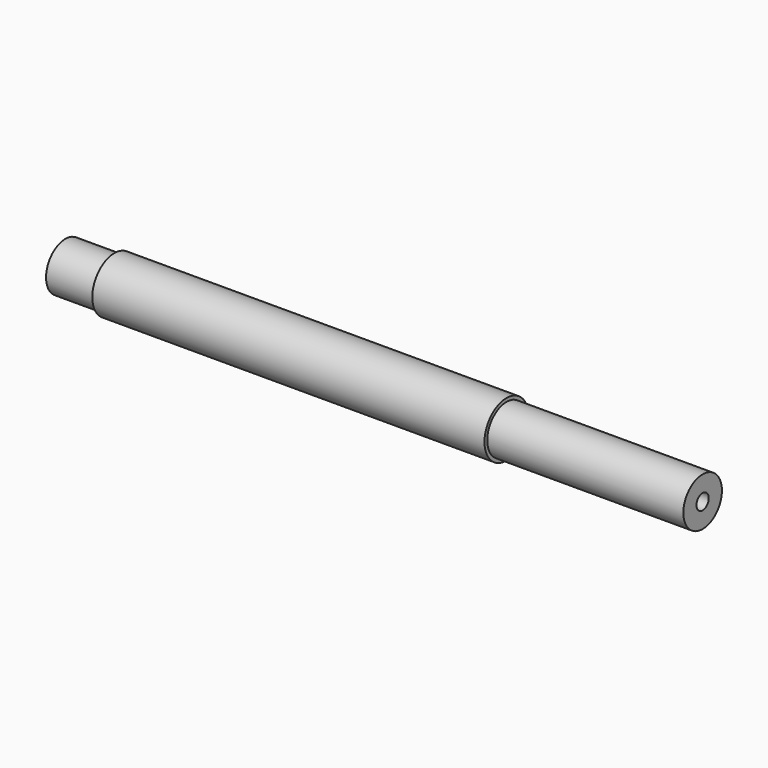
from build123d import *

# Parameters (mm, degrees)
F0_R          = 14.2875
F0_R_2        = 12.5
F1_DEPTH      = 101.6
F1_DEPTH_BACK = 101.6
F0_R_3        = 3.96875
F2_DEPTH      = 203.2
F2_DEPTH_BACK = 127
F3_DEPTH      = 25.4


with BuildPart() as f1:
    # F0 (on Right) → F1 (new body, two sides)
    with BuildSketch(Plane.YZ) as f1_sk:
        Circle(F0_R)
        Circle(F0_R_2, mode=Mode.SUBTRACT)
    extrude(amount=F1_DEPTH)
    extrude(f1_sk.sketch, amount=-F1_DEPTH_BACK)

    # F0 (on Right) → F2 (join, two sides)
    with BuildSketch(Plane.YZ) as f2_sk:
        Circle(F0_R_2)
        Circle(F0_R_3, mode=Mode.SUBTRACT)
    extrude(amount=F2_DEPTH)
    extrude(f2_sk.sketch, amount=-F2_DEPTH_BACK)

    # F0 (on Right) → F3 (join)
    with BuildSketch(Plane.YZ):
        Circle(F0_R_3)
    extrude(amount=F3_DEPTH)


solid = f1.part
